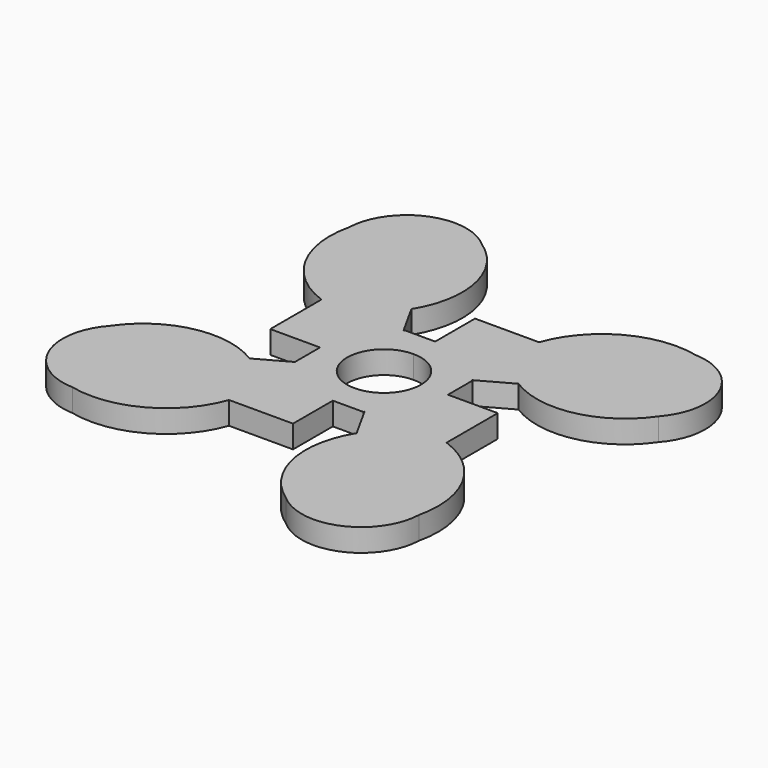
from build123d import *

# Parameters (mm, degrees)
F1_DEPTH = 4
F2_COUNT = 4
F4_DEPTH = 5


with BuildPart() as f1:
    # F0 (on Top) → F1 (new body)
    with BuildSketch(Plane.XY):
        with BuildLine():
            Line((-11.3897752017, 0), (0, 0))
            Line((0, 0), (0, 11.2630287185))
            Line((0, 11.2630287185), (-5.4190037772, 11.2630287185))
            Line((-5.4190037772, 11.2630287185), (-5.4190037772, 11.0505186021))
            Line((-5.4190037772, 11.0505186021), (-8.6066536605, 16.7882870883))
            ThreePointArc((-8.6066536605, 16.7882870883), (-6.5795750519, 28.2187096113), (-13.0392942344, 37.8642077748))
            ThreePointArc((-13.0392942344, 37.8642077748), (-24.1128062403, 39.6994920993), (-30.5027211192, 30.4712785919))
            ThreePointArc((-30.5027211192, 30.4712785919), (-28.9257647374, 18.8694362404), (-20.024523139, 11.2630287185))
            Line((-20.024523139, 11.2630287185), (-20.024523139, 0))
            Line((-20.024523139, 0), (-11.3897752017, 0))
        make_face()
    extrude(amount=F1_DEPTH)

    # F2: F1 ×4 about axis
    f2_axis = Axis((0, 0, 2), (0, 0, -1))


with BuildPart() as f1_1:
    add(f1.part)
    for i in range(1, F2_COUNT):
        add(f1.part.rotate(f2_axis, i * 360 / F2_COUNT))

    # F3 (on face) → F4 (cut)
    with BuildSketch(Plane.XY.offset(4)):
        with BuildLine():
            ThreePointArc((0, 6.5), (-4.5961940777, -4.5961940777), (6.5, 0))
            ThreePointArc((6.5, 0), (4.5961940777, 4.5961940777), (0, 6.5))
        make_face()
        with BuildLine():
            ThreePointArc((0, 6.5), (-4.5961940777, -4.5961940777), (6.5, 0))
            ThreePointArc((6.5, 0), (4.5961940777, 4.5961940777), (0, 6.5))
        make_face()
    extrude(amount=-F4_DEPTH, mode=Mode.SUBTRACT)


solid = f1_1.part
